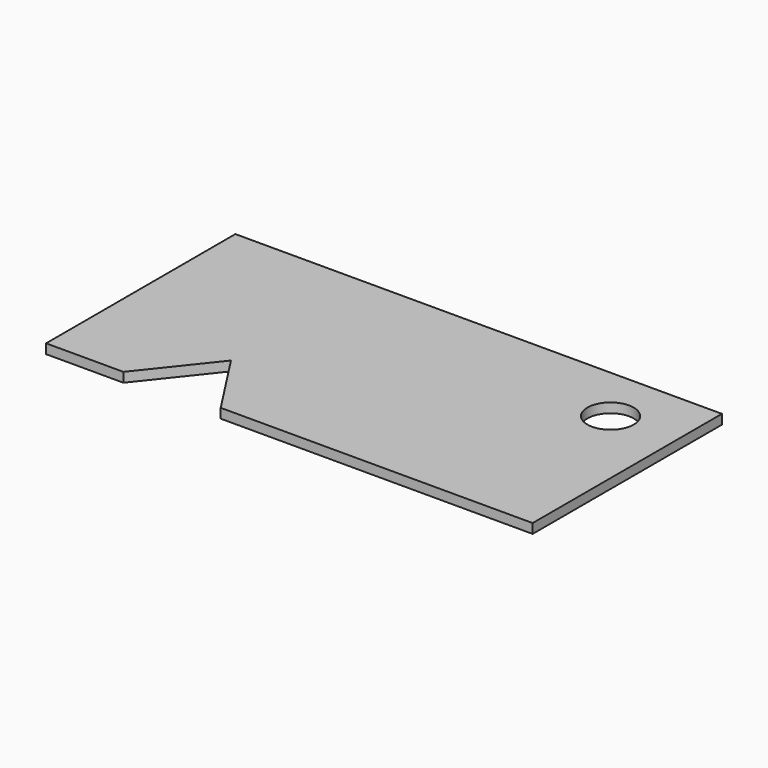
from build123d import *

# Parameters (mm, degrees)
F0_W     = 50.8
F0_H     = 24.7
F1_DEPTH = 1
F2_R     = 1.5
F3_DEPTH = 33.2
F4_R     = 2.413572
F5_DEPTH = 25
F7_DEPTH = 25


with BuildPart() as f1:
    # F0 (on Top) → F1 (new body)
    with BuildSketch(Plane.XY):
        Rectangle(F0_W, F0_H)
    extrude(amount=F1_DEPTH)

    # F2 (on face) → F3 (cut)
    with BuildSketch(Plane.XY.offset(1)):
        with Locations((19.324599, -3.538307)):
            Circle(F2_R)
    extrude(amount=F3_DEPTH, mode=Mode.SUBTRACT)

    # F4 (on face) → F5 (cut)
    with BuildSketch(Plane.XY.offset(1)):
        with Locations((18.560736, 6.366691)):
            Circle(F4_R)
    extrude(amount=-F5_DEPTH, mode=Mode.SUBTRACT)

    # F6 (on face) → F7 (cut)
    with BuildSketch(Plane.XY.offset(1)):
        Polygon((-11.734784, -5.304768), (-17.328629, -12.35), (-7.167339, -12.35), align=None)
    extrude(amount=-F7_DEPTH, mode=Mode.SUBTRACT)


solid = f1.part
